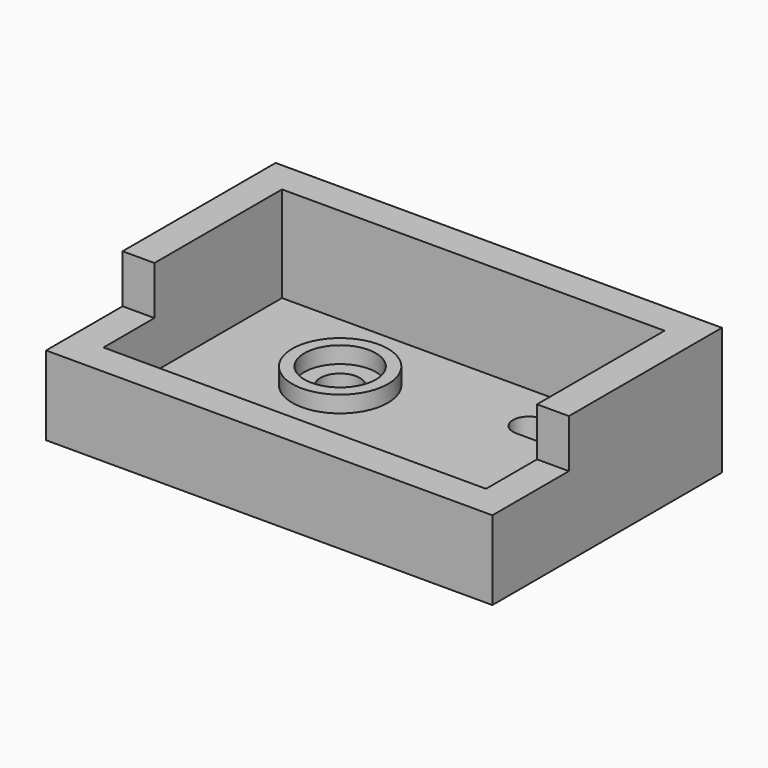
from build123d import *

# Parameters (mm, degrees)
F1_DEPTH = 25.4
F2_DEPTH = 15.748
F0_R     = 9.525
F3_DEPTH = 6.35
F0_R_2   = 7.112
F4_DEPTH = 9.652
F0_R_3   = 3.937
F5_DEPTH = 6.35


with BuildPart() as f1:
    # F0 (on Top) → F1 (new body)
    with BuildSketch(Plane.XY):
        Polygon((57.15, 23.622), (-31.75, 23.622), (-31.75, -14.478), (-25.4, -14.478), (-25.4, 17.272), (50.8, 17.272), (50.8, -14.478), (57.15, -14.478), align=None)
    extrude(amount=F1_DEPTH)

    # F0 (on Top) → F2 (join)
    with BuildSketch(Plane.XY):
        Polygon((-25.4, -14.478), (-31.75, -14.478), (-31.75, -33.528), (57.15, -33.528), (57.15, -14.478), (50.8, -14.478), (50.8, -27.178), (-25.4, -27.178), align=None)
    extrude(amount=F2_DEPTH)

    # F0 (on Top) → F3 (join)
    with BuildSketch(Plane.XY):
        Polygon((-25.4, 17.272), (-25.4, -14.478), (-25.4, -27.178), (50.8, -27.178), (50.8, -14.478), (50.8, 17.272), align=None)
        Circle(F0_R, mode=Mode.SUBTRACT)
        with BuildLine():
            ThreePointArc((31.496, 4.445), (28.321, 7.62), (31.496, 10.795))
            Line((31.496, 10.795), (41.148, 10.795))
            ThreePointArc((41.148, 10.795), (44.323, 7.62), (41.148, 4.445))
            Line((41.148, 4.445), (31.496, 4.445))
        make_face(mode=Mode.SUBTRACT)
    extrude(amount=F3_DEPTH)

    # F0 (on Top) → F4 (join)
    with BuildSketch(Plane.XY):
        Circle(F0_R)
        Circle(F0_R_2, mode=Mode.SUBTRACT)
    extrude(amount=F4_DEPTH)

    # F0 (on Top) → F5 (join)
    with BuildSketch(Plane.XY):
        Circle(F0_R_2)
        Circle(F0_R_3, mode=Mode.SUBTRACT)
    extrude(amount=F5_DEPTH)


solid = f1.part
